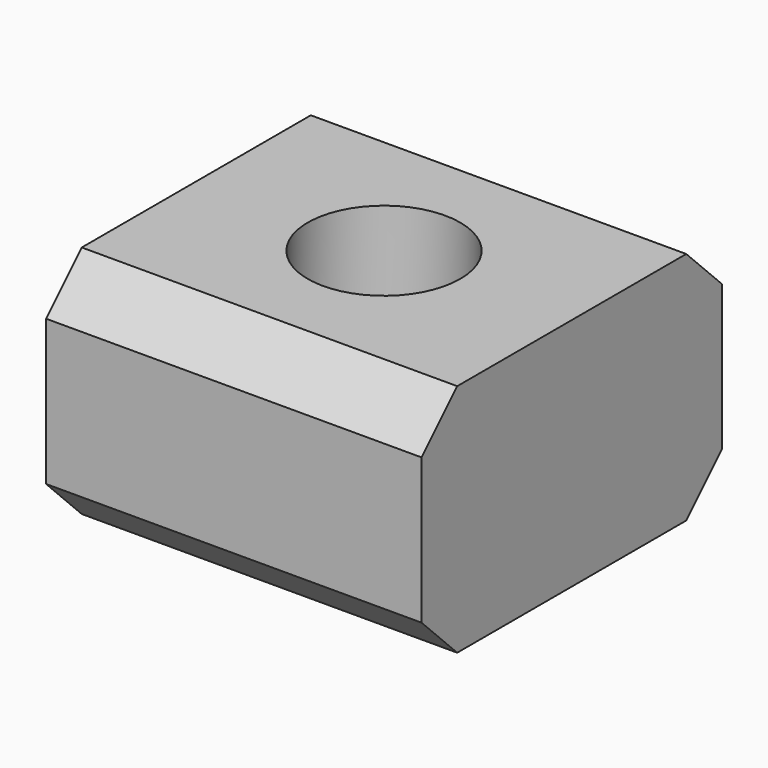
from build123d import *

# Parameters (mm, degrees)
F0_W     = 16
F0_H     = 16
F0_R     = 3.25
F1_DEPTH = 10
F2_DEPTH = 6
F3_SIZE  = 1.9


with BuildPart() as f1:
    # F0 (on Top) → F1 (new body)
    with BuildSketch(Plane.XY):
        Rectangle(F0_W, F0_H)
        Polygon((-6.004443, 0), (-3.002221, 5.2), (3.002221, 5.2), (6.004443, 0), (3.002221, -5.2), (-3.002221, -5.2), align=None, mode=Mode.SUBTRACT)
        Polygon((3.002221, 5.2), (-3.002221, 5.2), (-6.004443, 0), (-3.002221, -5.2), (3.002221, -5.2), (6.004443, 0), align=None)
        Circle(F0_R, mode=Mode.SUBTRACT)
    extrude(amount=F1_DEPTH)

    # F0 (on Top) → F2 (cut)
    with BuildSketch(Plane.XY):
        Polygon((3.002221, 5.2), (-3.002221, 5.2), (-6.004443, 0), (-3.002221, -5.2), (3.002221, -5.2), (6.004443, 0), align=None)
        Circle(F0_R, mode=Mode.SUBTRACT)
    extrude(amount=F2_DEPTH, mode=Mode.SUBTRACT)

    # F3
    f3_edges = [f1.edges().sort_by_distance(p)[0] for p in [
        (0, 8, 0),
        (0, -8, 0),
        (0, 8, 10),
        (0, -8, 10),
    ]]
    chamfer(f3_edges, length=F3_SIZE)


solid = f1.part
